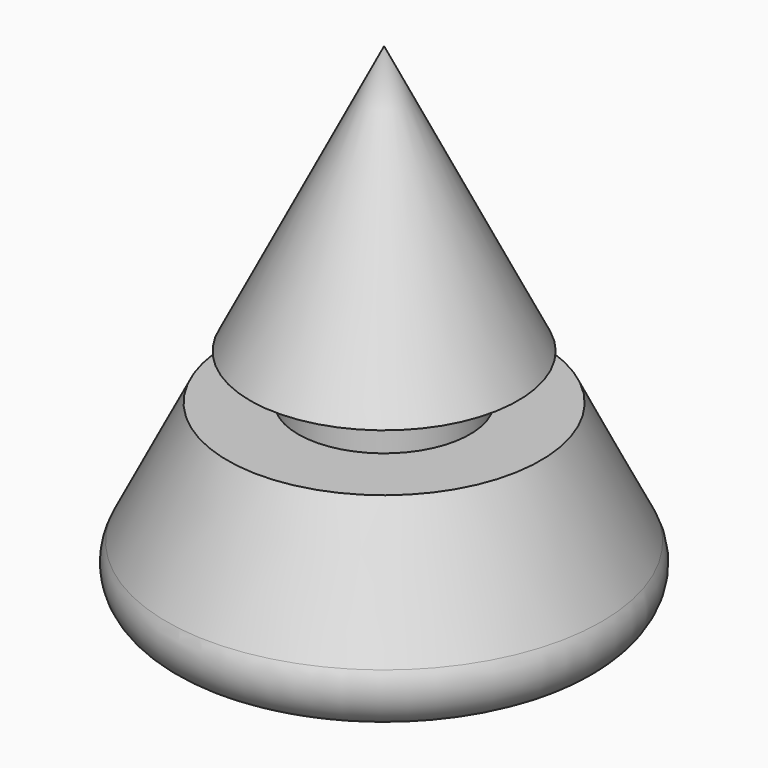
from build123d import *

# Parameters (mm, degrees)
F3_R = 5


with BuildPart() as f2:
    # F0 (on Front) → F2 (revolve)
    with BuildSketch(Plane.XZ):
        Polygon((-29.959241, 0), (0, 0), (0, 60.040765), (-16.230465, 27.513588), (-10.394023, 27.513588), (-10.394023, 22.020024), (-18.971652, 22.020024), align=None)
    revolve(axis=Axis((0, 0, 23.967392), (0, 0, -1)))

    # F3
    f3_edges = [f2.edges().sort_by_distance(p)[0] for p in [
        (29.959241, 0, 0),
    ]]
    fillet(f3_edges, radius=F3_R)


solid = f2.part
